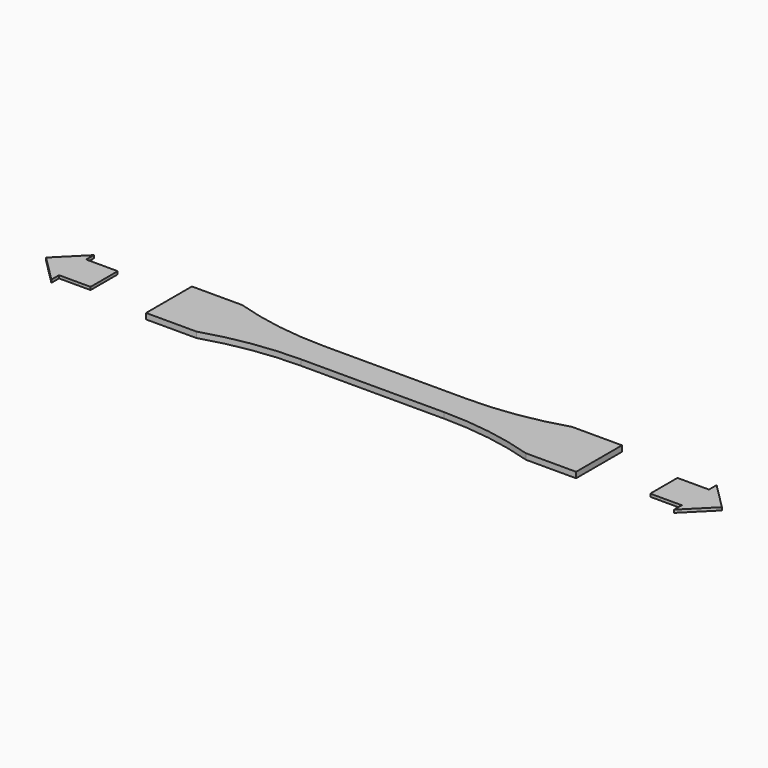
from build123d import *

# Parameters (mm, degrees)
PAD001_DEPTH = 1
ARRAY_COUNT  = 2
PAD_DEPTH    = 1


with BuildPart() as array:
    # Sketch001 → Pad001 (new body)
    with BuildSketch(Plane.XY):
        Polygon((108.608574, 5.925019), (97.606955, 5.925019), (97.606955, -5.925019), (108.608574, -5.925019), (108.608574, -9.255231), (117.863805, 0), (108.608574, 9.255231), align=None)
    extrude(amount=-PAD001_DEPTH)

    # Array: Array ×2 about axis
    array_axis = Axis((0, 0, 0), (0, 0, 1))


with BuildPart() as array_1:
    add(array.part)
    for i in range(1, ARRAY_COUNT):
        add(array.part.rotate(array_axis, i * 360 / ARRAY_COUNT))


with BuildPart() as fusion:
    # Sketch → Pad (new body, symmetric)
    with BuildSketch(Plane.XY):
        with BuildLine():
            Line((-57.480773, 10), (-75, 10))
            Line((-75, 10), (-75, -10))
            Line((-75, -10), (-57.48084, -10))
            ThreePointArc((-25.00008, -5), (-41.431755, -6.257319), (-57.48084, -10))
            Line((-25.00008, -5), (24.99992, -5))
            ThreePointArc((57.480687, -10), (41.431599, -6.257318), (24.99992, -5))
            Line((75, -10), (57.480687, -10))
            Line((75, 10), (75, -10))
            Line((57.480773, 10), (75, 10))
            ThreePointArc((24.99992, 5), (41.431642, 6.257312), (57.480773, 10))
            Line((-25.00008, 5), (24.99992, 5))
            ThreePointArc((-57.480773, 10), (-41.431721, 6.257324), (-25.00008, 5))
        make_face()
    extrude(amount=PAD_DEPTH, both=True)

    # Fusion: union Array
    add(array_1.part)


solid = fusion.part
